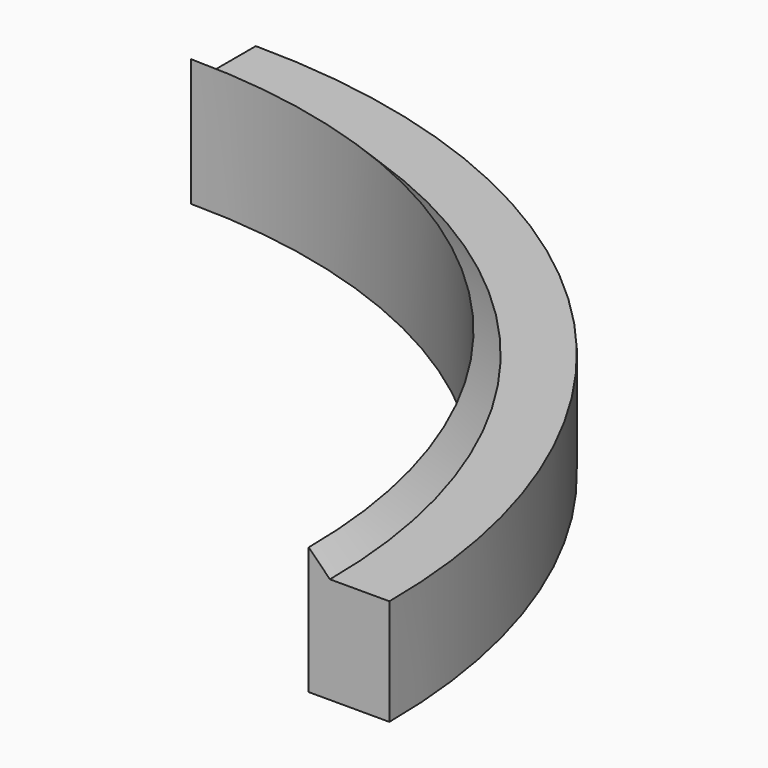
from build123d import *

# Parameters (mm, degrees)
F1_ANGLE = 90


with BuildPart() as f1:
    # F0 (on Right) → F1 (revolve)
    with BuildSketch(Plane.YZ):
        Polygon((70.231, 15.24), (70.231, 0), (79.883, 0), (79.883, 12.7), (72.771, 12.7), align=None)
    revolve(axis=Axis((0, 0, 5.783735), (0, 0, -1)), revolution_arc=F1_ANGLE)


solid = f1.part
